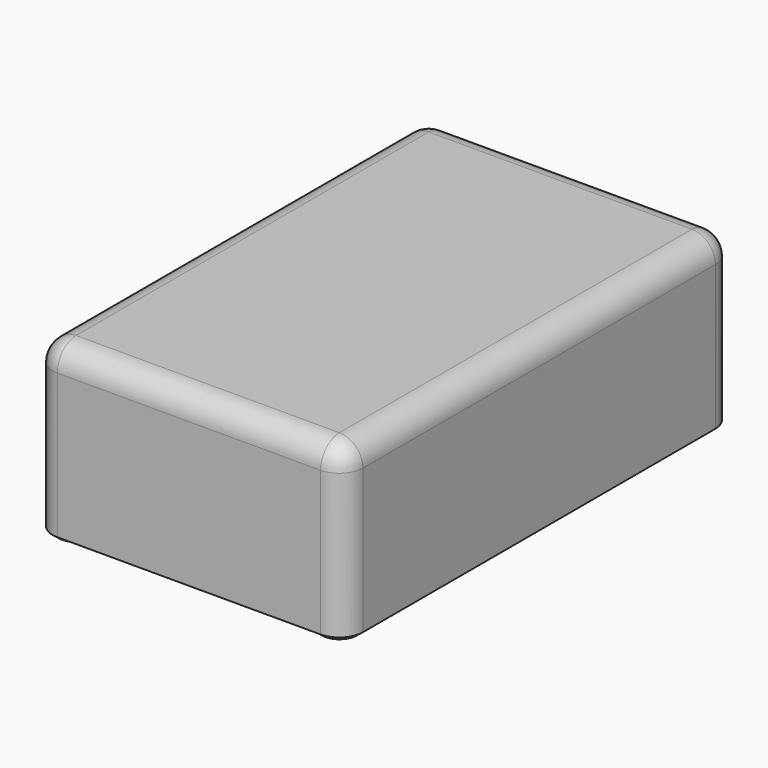
from build123d import *

# Parameters (mm, degrees)
F0_W     = 67.056
F0_H     = 105.41
F1_DEPTH = 36.322
F2_R     = 5.08
F3_R     = 3.81
F4_DEPTH = 1.016


with BuildPart() as f1:
    # F0 (on Top) → F1 (new body)
    with BuildSketch(Plane.XY):
        with Locations((33.528, 52.705)):
            Rectangle(F0_W, F0_H)
    extrude(amount=F1_DEPTH)

    # F2
    f2_edges = [f1.edges().sort_by_distance(p)[0] for p in [
        (0, 0, 18.161),
        (67.056, 0, 18.161),
        (67.056, 105.41, 18.161),
        (0, 52.705, 36.322),
        (33.528, 0, 36.322),
        (67.056, 52.705, 36.322),
        (33.528, 105.41, 36.322),
        (0, 105.41, 18.161),
    ]]
    fillet(f2_edges, radius=F2_R)

    # F3 (on face) → F4 (join)
    with BuildSketch(Plane(origin=(0, 0, 0), x_dir=(1, 0, 0), z_dir=(0, 0, -1))):
        with Locations((5.08, -5.08)):
            Circle(F3_R)
        with Locations((61.976, -5.08)):
            Circle(F3_R)
        with Locations((5.08, -100.33)):
            Circle(F3_R)
        with Locations((61.976, -100.33)):
            Circle(F3_R)
    extrude(amount=F4_DEPTH)


solid = f1.part
